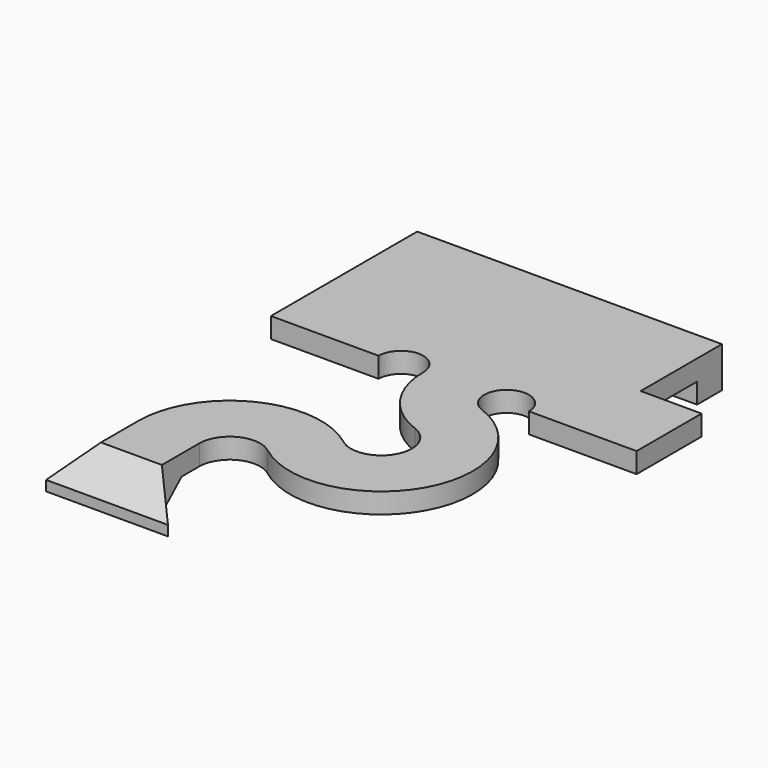
from build123d import *

# Parameters (mm, degrees)
SKETCH_W             = 56
SKETCH_H             = 12
PAD_DEPTH            = 64
POCKET_DEPTH         = 8
PAD001_DEPTH         = 4.5
SKETCH005_R          = 2
SKETCH005_W          = 30
SKETCH005_H          = 5
POCKET001_DEPTH      = 10.5
SKETCH007_R          = 4
SKETCH007_W          = 3
SKETCH007_H          = 7
POCKET002_DEPTH      = 3
CHAMFER_SIZE         = 1.5
PAD002_DEPTH         = 2
CHAMFER001_SIZE      = 1.5
POCKET003_DEPTH      = 9.02746
POCKET003_DEPTH_BACK = 9.001


with BuildPart() as body003:
    # Sketch → Pad (new body)
    with BuildSketch(Plane.XZ):
        with Locations((0, -6)):
            Rectangle(SKETCH_W, SKETCH_H)
    extrude(amount=PAD_DEPTH)

    # Sketch002 → Pocket (cut)
    with BuildSketch(Plane.XY):
        Polygon((-24.2, 0), (-24.2, -57.2), (-17.9, -57.2), (-17.9, -39.2), (17.9, -39.2), (17.9, -57.2), (24.2, -57.2), (24.2, 0), align=None)
        with BuildLine():
            Line((-9, -41.2), (-9, -50.2))
            Line((-9, -50.2), (-3.7, -50.2))
            ThreePointArc((-1.5, -50.2), (-2.6, -49.1), (-3.7, -50.2))
            ThreePointArc((-1.5, -50.2), (-0.771185, -52.533477), (1.156153, -54.037357))
            ThreePointArc((-0.285678, -56.630951), (1.938949, -56.170097), (1.156153, -54.037357))
            ThreePointArc((-0.285678, -56.630951), (-5.015993, -56.163695), (-7.52646, -60.2))
            Line((-7.52646, -60.2), (-7.52646, -67.774911))
            Line((-7.52646, -67.774911), (-4.52646, -67.774911))
            Line((-4.52646, -67.774911), (-4.52646, -60.2))
            ThreePointArc((-2.112866, -59.010317), (-3.689638, -58.854565), (-4.52646, -60.2))
            ThreePointArc((-2.112866, -59.010317), (4.561015, -57.627756), (2.212626, -51.229535))
            ThreePointArc((3.7, -50.2), (1.973945, -49.295536), (2.212626, -51.229535))
            Line((9, -50.2), (3.7, -50.2))
            Line((9, -46.2), (9, -50.2))
            Line((6, -46.2), (9, -46.2))
            Line((6, -41.2), (6, -46.2))
            Line((-9, -41.2), (6, -41.2))
        make_face()
    extrude(amount=-POCKET_DEPTH, mode=Mode.SUBTRACT)

    # Sketch006 → Pad001 (join)
    with BuildSketch(Plane.XY):
        Polygon((-25.2, -12), (-22.614214, -12), (-21.2, -13.414214), (-21.2, -58), (-25.2, -58), align=None)
        Polygon((25.2, -12), (22.614214, -12), (21.2, -13.414214), (21.2, -58), (25.2, -58), align=None)
    extrude(amount=-PAD001_DEPTH)

    # Sketch005 → Pocket001 (cut)
    with BuildSketch(Plane.XY):
        with Locations((-12.5, -56)):
            Circle(SKETCH005_R)
        with Locations((12.5, -56)):
            Circle(SKETCH005_R)
        with BuildLine():
            Line((-12.25, -29), (-12.25, -49.5))
            Line((-12.25, -49.5), (-3.75, -49.5))
            Line((-3.75, -49.5), (-3.75, -49))
            Line((-3.75, -49), (-11.25, -49))
            ThreePointArc((-11.75, -48.5), (-11.603553, -48.853553), (-11.25, -49))
            Line((-11.75, -48.5), (-11.75, -29))
            Line((-11.75, -29), (-12.25, -29))
        make_face()
        with BuildLine():
            Line((12.25, -29), (12.25, -49.5))
            Line((12.25, -49.5), (3.75, -49.5))
            Line((3.75, -49.5), (3.75, -49))
            Line((3.75, -49), (11.25, -49))
            ThreePointArc((11.25, -49), (11.603553, -48.853553), (11.75, -48.5))
            Line((11.75, -48.5), (11.75, -29))
            Line((11.75, -29), (12.25, -29))
        make_face()
        with Locations((0, -6.3)):
            Rectangle(SKETCH005_W, SKETCH005_H)
    extrude(amount=-POCKET001_DEPTH, mode=Mode.SUBTRACT)

    # Sketch007 → Pocket002 (cut)
    with BuildSketch(Plane.XY):
        with Locations((-12.5, -56)):
            Circle(SKETCH007_R)
        with Locations((12.5, -56)):
            Circle(SKETCH007_R)
        with Locations((8.5, -41.5)):
            Rectangle(SKETCH007_W, SKETCH007_H)
    extrude(amount=-POCKET002_DEPTH, mode=Mode.SUBTRACT)

    # Chamfer
    chamfer_edges = [body003.edges().sort_by_distance(p)[0] for p in [
        (28, -32, -12),
        (-28, -32, -12),
        (0, 0, -12),
        (0, -64, -12),
        (28, -32, 0),
        (28, 0, -6),
        (28, -64, -6),
        (-28, -32, 0),
        (-28, 0, -6),
        (-28, -64, -6),
        (11.73677, -64, 0),
        (-4.52646, -64, -4),
        (-6.02646, -64, -8),
        (-7.52646, -64, -4),
        (-17.76323, -64, 0),
        (-26.1, 0, 0),
        (26.1, 0, 0),
    ]]
    chamfer(chamfer_edges, length=CHAMFER_SIZE)


with BuildPart() as cablecover:
    # Sketch008 → Pad002 (new body)
    with BuildSketch(Plane.XY):
        Polygon((5.266473, -64), (-9.544278, -64), (-7.665841, -56.897079), (-9, -50.2), (-9, -41.2), (6.447607, -41.2), (6.447607, -45.58699), (9, -45.58699), (9, -50.2), align=None)
    extrude(amount=-PAD002_DEPTH)

    # Chamfer001
    chamfer001_edges = [cablecover.edges().sort_by_distance(p)[0] for p in [
        (-2.138902, -64, 0),
    ]]
    chamfer(chamfer001_edges, length=CHAMFER001_SIZE)

    # Cut: cut Body003
    add(body003.part, mode=Mode.SUBTRACT)

    # Sketch009 → Pocket003 (cut, two sides)
    with BuildSketch(Plane.YZ) as pocket003_sk:
        Polygon((-42.730701, -2), (-62.409084, -2), (-61.282127, -1), (-42.730701, -1), align=None)
    extrude(amount=-POCKET003_DEPTH, mode=Mode.SUBTRACT)
    extrude(pocket003_sk.sketch, amount=POCKET003_DEPTH_BACK, mode=Mode.SUBTRACT)


solid = cablecover.part
